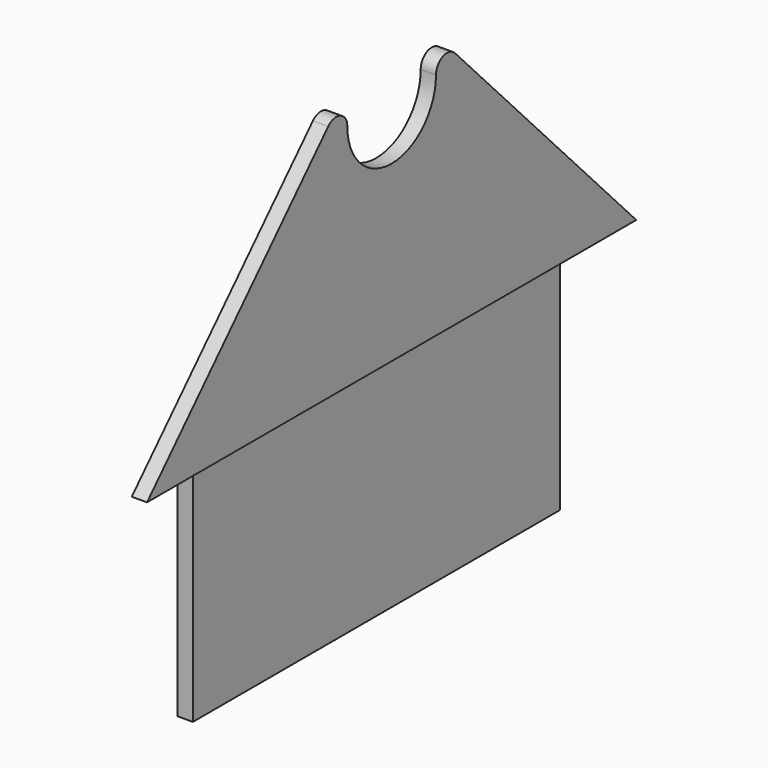
from build123d import *

# Parameters (mm, degrees)
F1_DEPTH = 2.54
F2_W     = 76.2
F2_H     = 44.631428
F3_DEPTH = 2.54


with BuildPart() as f1:
    # F0 (on Right) → F1 (new body)
    with BuildSketch(Plane.YZ):
        with BuildLine():
            Line((-13.179901, 39.683658), (-50.8, 0))
            Line((-50.8, 0), (50.8, 0))
            Line((50.8, 0), (13.179901, 39.683658))
            ThreePointArc((13.179901, 39.683658), (10.656941, 40.23822), (9.2075, 38.1))
            ThreePointArc((9.2075, 38.1), (0, 28.8925), (-9.2075, 38.1))
            ThreePointArc((-9.2075, 38.1), (-10.656941, 40.23822), (-13.179901, 39.683658))
        make_face()
    extrude(amount=F1_DEPTH)

    # F2 (on Right) → F3 (join)
    with BuildSketch(Plane.YZ):
        with Locations((0, -15.784286)):
            Rectangle(F2_W, F2_H)
    extrude(amount=-F3_DEPTH)


solid = f1.part
